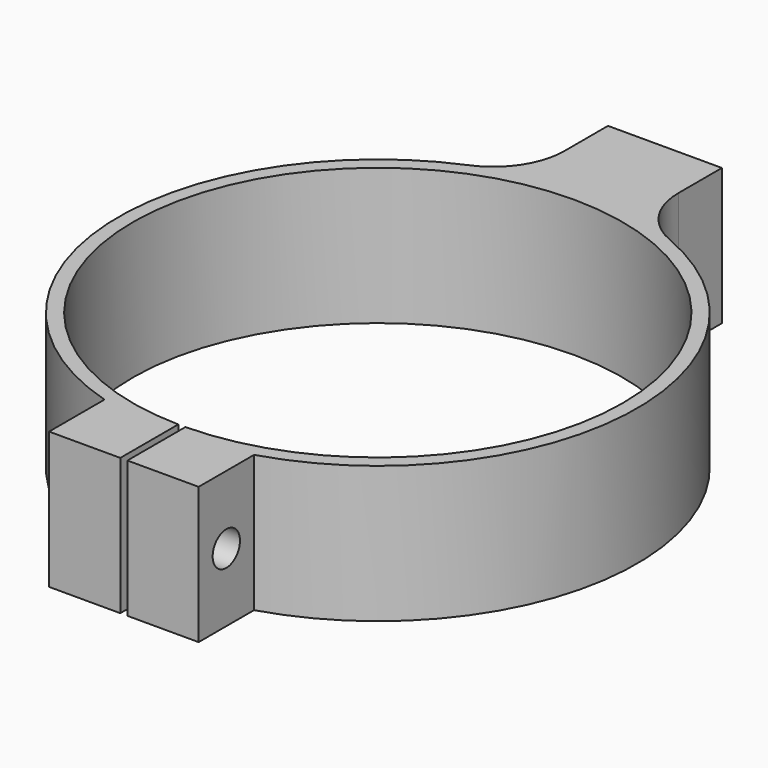
from build123d import *

# Parameters (mm, degrees)
F1_DEPTH = 9.6
F3_D     = 2.4
F5_D     = 1.2
F5_DEPTH = 7
F5_TIP   = 0.3605163714
F6_R     = 5


with BuildPart() as f1:
    # F0 (on Top) → F1 (new body)
    with BuildSketch(Plane.XY):
        with BuildLine():
            Line((-4, 25.2), (-4, 17.754999296))
            ThreePointArc((-4, 17.754999296), (0, 18.2), (4, 17.754999296))
            Line((4, 17.754999296), (4, 25.2))
            Line((4, 25.2), (-4, 25.2))
        make_face()
        with BuildLine():
            ThreePointArc((-0.25, -17.1981830436), (-12.0735247546, 12.2503061186), (17.2, 0))
            ThreePointArc((17.2, 0), (12.2503061186, -12.0735247546), (0.25, -17.1981830436))
            Line((0.25, -17.1981830436), (0.25, -18.198282886))
            ThreePointArc((0.25, -18.198282886), (2.7769537313, -17.986898787), (5.25, -17.4263449983))
            ThreePointArc((5.25, -17.4263449983), (18.1885230733, 0.6462417596), (4, 17.754999296))
            ThreePointArc((4, 17.754999296), (0, 18.2), (-4, 17.754999296))
            ThreePointArc((-4, 17.754999296), (-18.1885230733, 0.6462417596), (-5.25, -17.4263449983))
            ThreePointArc((-5.25, -17.4263449983), (-2.7769537313, -17.986898787), (-0.25, -18.198282886))
            Line((-0.25, -18.198282886), (-0.25, -17.1981830436))
        make_face()
        with BuildLine():
            Line((-0.25, -22.2885478301), (-0.25, -18.198282886))
            ThreePointArc((-0.25, -18.198282886), (-2.7769537313, -17.986898787), (-5.25, -17.4263449983))
            Line((-5.25, -17.4263449983), (-5.25, -22.2885478301))
            Line((-5.25, -22.2885478301), (-0.25, -22.2885478301))
        make_face()
        with BuildLine():
            ThreePointArc((5.25, -17.4263449983), (2.7769537313, -17.986898787), (0.25, -18.198282886))
            Line((0.25, -18.198282886), (0.25, -22.2885478301))
            Line((0.25, -22.2885478301), (5.25, -22.2885478301))
            Line((5.25, -22.2885478301), (5.25, -17.4263449983))
        make_face()
    extrude(amount=F1_DEPTH)

    # F3 (through all)
    with Locations(Plane(origin=(-5.25, 0, 0), x_dir=(0, -1, 0), z_dir=(-1, 0, 0))):
        with Locations((19.8574464142, 4.8)):
            Hole(F3_D / 2)

    # F5
    with Locations(Plane(origin=(0, 25.2, 0), x_dir=(-1, 0, 0), z_dir=(0, 1, 0))):
        with Locations((0, 4.8)):
            Hole(F5_D / 2, depth=F5_DEPTH)
            with Locations((0, 0, -(F5_DEPTH + F5_TIP / 2))):  # 118° drill point
                Cone(0, F5_D / 2, F5_TIP, mode=Mode.SUBTRACT)

    # F6
    f6_edges = [f1.edges().sort_by_distance(p)[0] for p in [
        (-4, 17.754999, 4.8),
        (4, 17.754999, 4.8),
    ]]
    fillet(f6_edges, radius=F6_R)


solid = f1.part
